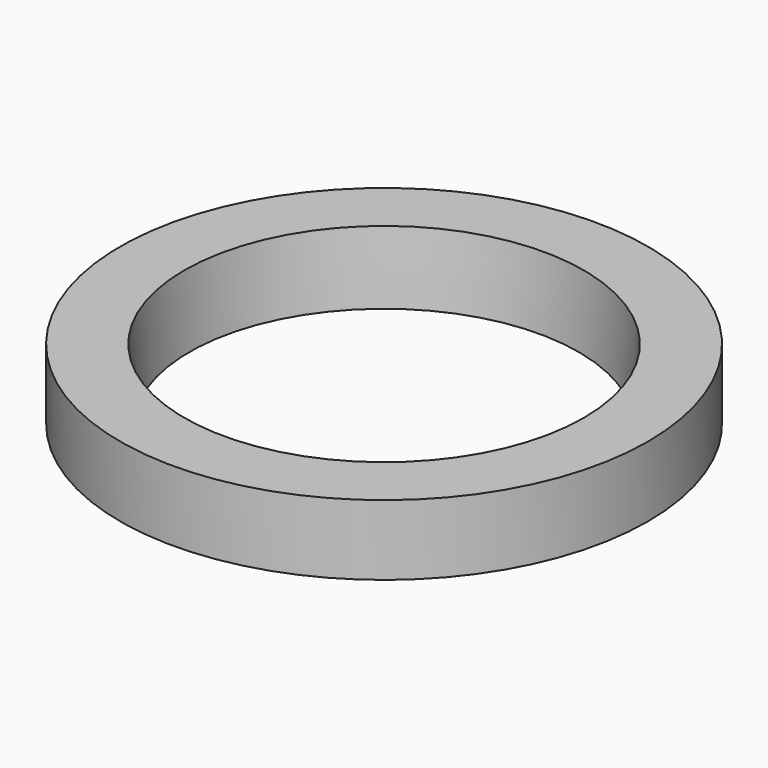
from build123d import *

# Parameters (mm, degrees)
F0_R     = 23.8506
F0_R_2   = 15.875
F1_DEPTH = 6.35


with BuildPart() as f1:
    # F0 (on Top) → F1 (new body)
    with BuildSketch(Plane.XY):
        Circle(F0_R)
        Circle(F0_R_2, mode=Mode.SUBTRACT)
    extrude(amount=F1_DEPTH)

    # F2 (on Front) → F4 (revolve, cut)
    with BuildSketch(Plane.XZ):
        Polygon((18.428318, 11.506427), (15.33315, 11.503193), (15.33315, -30.824473), align=None)
    revolve(axis=Axis((0, 0, -4.185322), (0, 0, -1)), mode=Mode.SUBTRACT)


solid = f1.part
